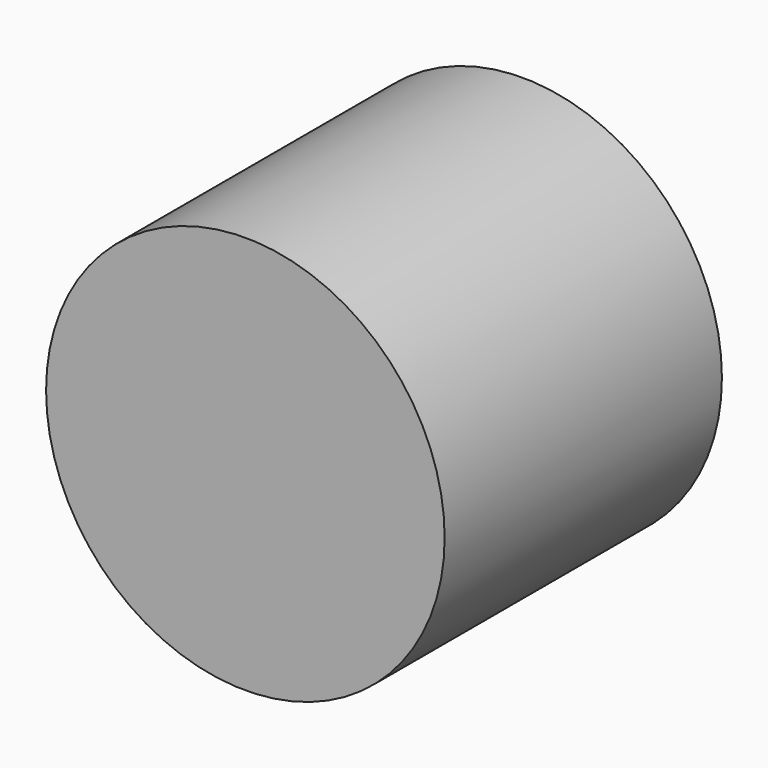
from build123d import *


with BuildPart() as f1:
    # F0 (on Top) → F1 (revolve)
    with BuildSketch(Plane.XY):
        Polygon((0, 158.722055), (0, -349.277945), (292.1, -349.277945), (292.1, -274.136967), (41.911075, -274.136967), (41.911075, 158.722055), align=None)
        Polygon((0, 158.722055), (0, -349.277945), (292.1, -349.277945), (292.1, -274.136967), (41.911075, -274.136967), (41.911075, 158.722055), align=None)
    revolve(axis=Axis((292.1, -311.707456, 0), (0, 1, 0)))


solid = f1.part
